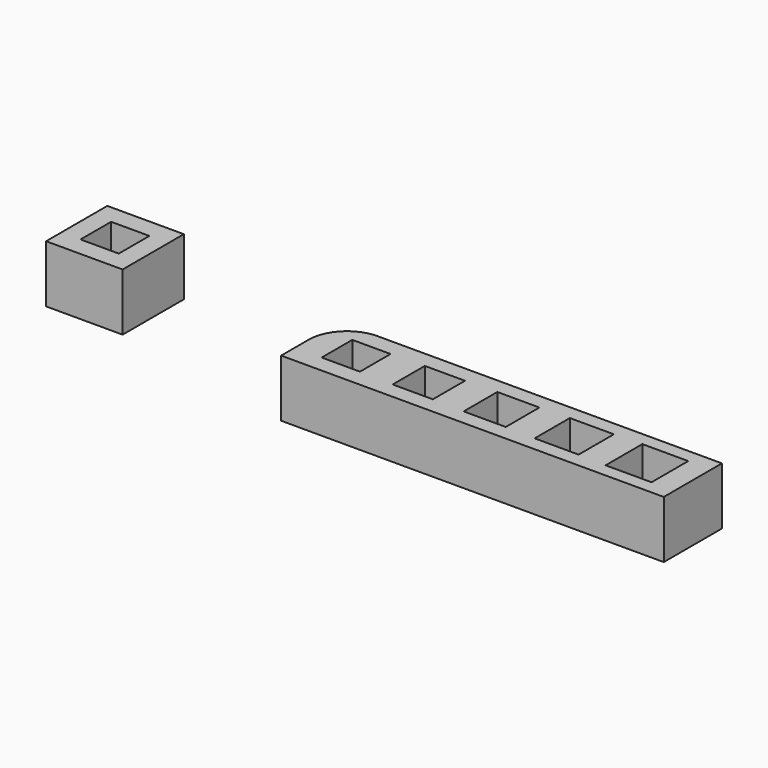
from build123d import *

# Parameters (mm, degrees)
F0_W     = 5
F0_H     = 5
F0_W_2   = 5.25
F0_H_2   = 5.25
F0_W_3   = 5.5
F0_H_3   = 5.5
F0_W_4   = 5.75
F0_H_4   = 5.75
F0_W_5   = 6
F0_H_5   = 6
F1_DEPTH = 5
F2_DEPTH = 2.5
F3_W     = 10
F3_H     = 10
F3_W_2   = 5
F3_H_2   = 5
F4_DEPTH = 5
F5_DEPTH = 2.5


with BuildPart() as f1:
    # F0 (on Top) → F1 (new body)
    with BuildSketch(Plane.XY):
        with BuildLine():
            Line((44, -4.75), (44, 4.75))
            Line((44, 4.75), (-1, 4.75))
            ThreePointArc((-1, 4.75), (-4.5355339059, 3.2855339059), (-6, -0.25))
            Line((-6, -0.25), (-6, -4.75))
            Line((-6, -4.75), (44, -4.75))
        make_face()
        Rectangle(F0_W, F0_H, mode=Mode.SUBTRACT)
        with Locations((9.5, 0)):
            Rectangle(F0_W_2, F0_H_2, mode=Mode.SUBTRACT)
        with Locations((19, 0)):
            Rectangle(F0_W_3, F0_H_3, mode=Mode.SUBTRACT)
        with Locations((28.5, 0)):
            Rectangle(F0_W_4, F0_H_4, mode=Mode.SUBTRACT)
        with Locations((38, 0)):
            Rectangle(F0_W_5, F0_H_5, mode=Mode.SUBTRACT)
    extrude(amount=F1_DEPTH)

    # F0 (on Top) → F2 (join)
    with BuildSketch(Plane.XY):
        with BuildLine():
            Line((44, -4.75), (44, 4.75))
            Line((44, 4.75), (-1, 4.75))
            ThreePointArc((-1, 4.75), (-4.5355339059, 3.2855339059), (-6, -0.25))
            Line((-6, -0.25), (-6, -4.75))
            Line((-6, -4.75), (44, -4.75))
        make_face()
        Rectangle(F0_W, F0_H, mode=Mode.SUBTRACT)
        with Locations((9.5, 0)):
            Rectangle(F0_W_2, F0_H_2, mode=Mode.SUBTRACT)
        with Locations((19, 0)):
            Rectangle(F0_W_3, F0_H_3, mode=Mode.SUBTRACT)
        with Locations((28.5, 0)):
            Rectangle(F0_W_4, F0_H_4, mode=Mode.SUBTRACT)
        with Locations((38, 0)):
            Rectangle(F0_W_5, F0_H_5, mode=Mode.SUBTRACT)
        with Locations((38, 0)):
            Rectangle(F0_W_5, F0_H_5)
        with Locations((28.5, 0)):
            Rectangle(F0_W_4, F0_H_4)
        with Locations((19, 0)):
            Rectangle(F0_W_3, F0_H_3)
        with Locations((9.5, 0)):
            Rectangle(F0_W_2, F0_H_2)
        Rectangle(F0_W, F0_H)
    extrude(amount=-F2_DEPTH)


with BuildPart() as f4:
    # F3 (on Top) → F4 (new body)
    with BuildSketch(Plane.XY):
        with Locations((-35.5154023, 5)):
            Rectangle(F3_W, F3_H)
        with Locations((-35.5154023, 5)):
            Rectangle(F3_W_2, F3_H_2, mode=Mode.SUBTRACT)
    extrude(amount=F4_DEPTH)

    # F3 (on Top) → F5 (join)
    with BuildSketch(Plane.XY):
        with Locations((-35.5154023, 5)):
            Rectangle(F3_W, F3_H)
        with Locations((-35.5154023, 5)):
            Rectangle(F3_W_2, F3_H_2, mode=Mode.SUBTRACT)
        with Locations((-35.5154023, 5)):
            Rectangle(F3_W_2, F3_H_2)
    extrude(amount=-F5_DEPTH)


solid = Compound([f1.part, f4.part])
